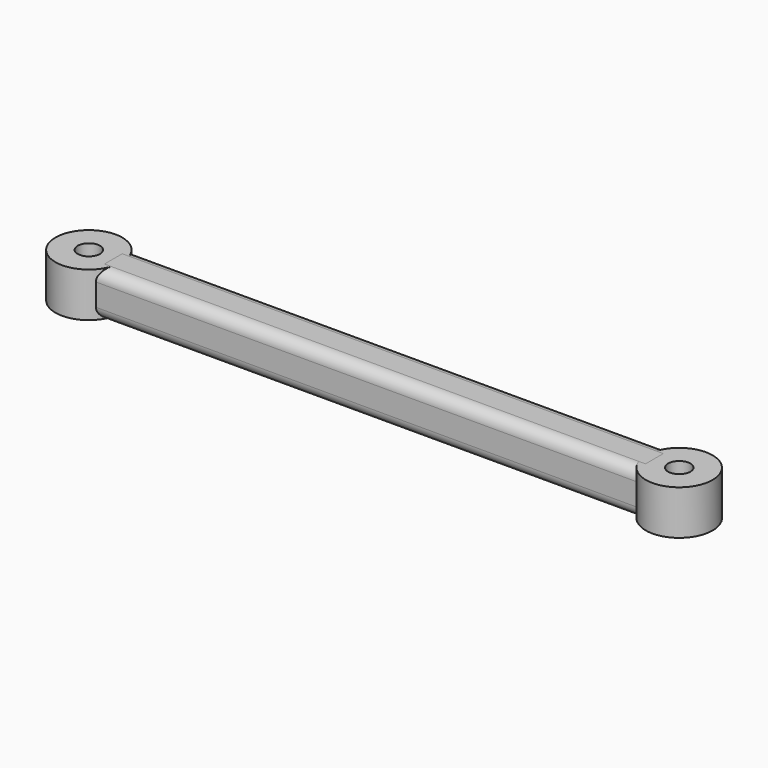
from build123d import *

# Parameters (mm, degrees)
SKETCH_R     = 3
SKETCH_R_2   = 1
PAD_DEPTH    = 4
SKETCH001_W  = 48.6
SKETCH001_H  = 4
PAD001_DEPTH = 2
FILLET_R     = 1
FILLET001_R  = 1
FILLET002_R  = 1
FILLET003_R  = 1


with BuildPart() as pad:
    # Sketch → Pad (new body)
    with BuildSketch(Plane.XY):
        Circle(SKETCH_R)
        Circle(SKETCH_R_2, mode=Mode.SUBTRACT)
        with Locations((53, 0.039615)):
            Circle(SKETCH_R)
        with Locations((53, 0.039615)):
            Circle(SKETCH_R_2, mode=Mode.SUBTRACT)
    extrude(amount=PAD_DEPTH)


with BuildPart() as fillet003:
    # Sketch001 → Pad001 (new body, symmetric)
    with BuildSketch(Plane.XZ):
        with Locations((26.5, 2)):
            Rectangle(SKETCH001_W, SKETCH001_H)
    extrude(amount=PAD001_DEPTH, both=True)

    # Fillet
    fillet_edges = [fillet003.edges().sort_by_distance(p)[0] for p in [
        (26.5, 2, 4),
    ]]
    fillet(fillet_edges, radius=FILLET_R)

    # Fillet001
    fillet001_edges = [fillet003.edges().sort_by_distance(p)[0] for p in [
        (26.5, -2, 4),
    ]]
    fillet(fillet001_edges, radius=FILLET001_R)

    # Fillet002
    fillet002_edges = [fillet003.edges().sort_by_distance(p)[0] for p in [
        (26.5, -2, 0),
    ]]
    fillet(fillet002_edges, radius=FILLET002_R)

    # Fillet003
    fillet003_edges = [fillet003.edges().sort_by_distance(p)[0] for p in [
        (26.5, 2, 0),
    ]]
    fillet(fillet003_edges, radius=FILLET003_R)


solid = Compound([pad.part, fillet003.part])
